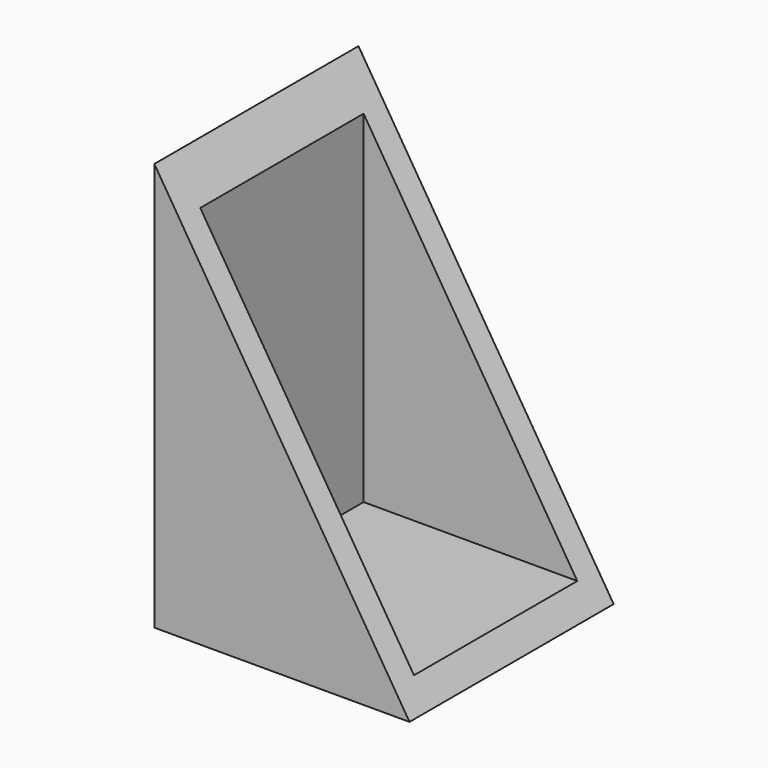
from build123d import *

# Parameters (mm, degrees)
F1_DEPTH = 50
F3_W     = 45
F3_H     = 40
F4_DEPTH = 95


with BuildPart() as f1:
    # F0 (on Front) → F1 (new body)
    with BuildSketch(Plane.XZ):
        Polygon((0, 80), (0, 0), (50, 0), align=None)
    extrude(amount=F1_DEPTH)

    # F3 (on offset) → F4 (cut)
    with BuildSketch(Plane.XY.offset(100)):
        with Locations((27.5, -25)):
            Rectangle(F3_W, F3_H)
    extrude(amount=-F4_DEPTH, mode=Mode.SUBTRACT)


solid = f1.part
